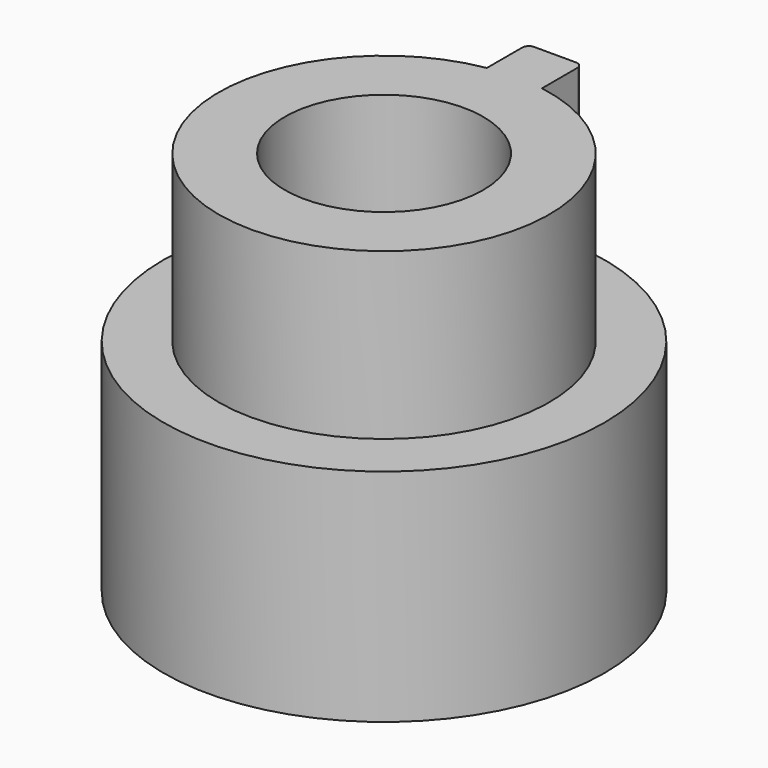
from build123d import *

# Parameters (mm, degrees)
F0_R     = 12.7
F1_DEPTH = 12.7
F2_R     = 9.525
F3_DEPTH = 9.525
F5_DEPTH = 10.16
F6_R     = 5.715
F7_DEPTH = 12.7
F8_R     = 0.381


with BuildPart() as f1:
    # F0 (on Top) → F1 (new body)
    with BuildSketch(Plane.XY):
        Circle(F0_R)
    extrude(amount=F1_DEPTH)

    # F2 (on face) → F3 (join)
    with BuildSketch(Plane.XY.offset(12.7)):
        Circle(F2_R)
    extrude(amount=F3_DEPTH)

    # F4 (on face) → F5 (join)
    with BuildSketch(Plane.XY.offset(22.225)):
        with BuildLine():
            Line((-1.5875, 9.391777), (-1.5875, 6.731))
            Line((-1.5875, 6.731), (1.5875, 6.731))
            Line((1.5875, 6.731), (1.5875, 9.391777))
            ThreePointArc((1.5875, 9.391777), (0, 9.525), (-1.5875, 9.391777))
        make_face()
        with BuildLine():
            Line((-1.5875, 12.319), (-1.5875, 9.391777))
            ThreePointArc((-1.5875, 9.391777), (0, 9.525), (1.5875, 9.391777))
            Line((1.5875, 9.391777), (1.5875, 12.319))
            Line((1.5875, 12.319), (-1.5875, 12.319))
        make_face()
    extrude(amount=-F5_DEPTH)

    # F6 (on face) → F7 (cut)
    with BuildSketch(Plane.XY.offset(22.225)):
        Circle(F6_R)
    extrude(amount=-F7_DEPTH, mode=Mode.SUBTRACT)

    # F8
    f8_edges = [f1.edges().sort_by_distance(p)[0] for p in [
        (1.5875, 12.319, 17.4625),
        (-1.5875, 12.319, 17.4625),
    ]]
    fillet(f8_edges, radius=F8_R)


solid = f1.part
